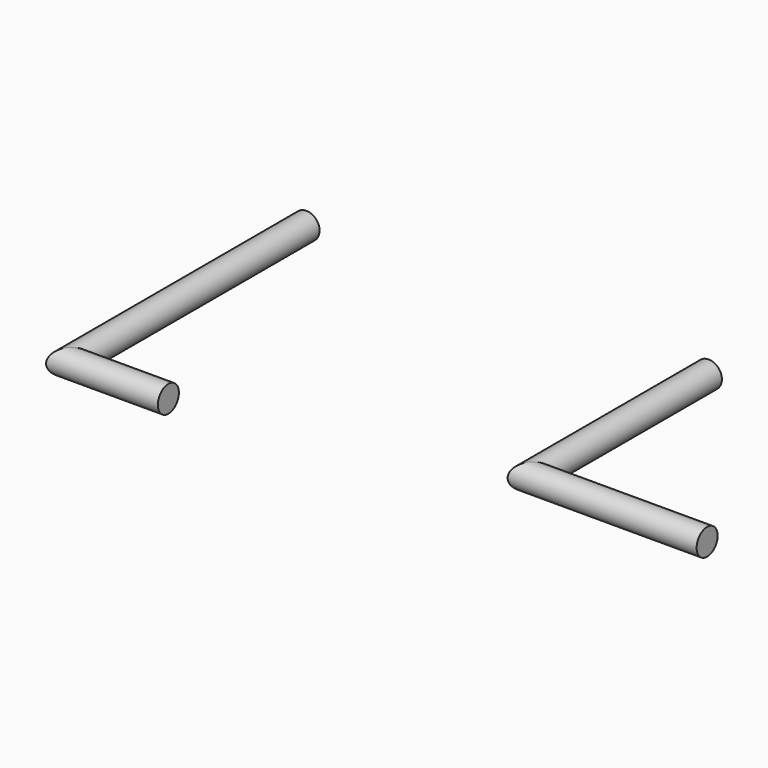
from build123d import *

# Parameters (mm, degrees)
F1_R = 8
F4_R = 8


with BuildPart() as f2:
    # F2: sweep along a path in F0
    with BuildLine(Plane.XY) as f2_path:
        Line((0, 0), (0, -135))
        Line((0, -135), (107, -135))
    # F1 (on Front) → F2 (sweep)
    with BuildSketch(Plane.XZ):
        Circle(F1_R)
    sweep(path=f2_path.line, transition=Transition.RIGHT)


with BuildPart() as f5:
    # F5: sweep along a path in F3
    with BuildLine(Plane.XY) as f5_path:
        Line((-244.7834680786, 0), (-244.7834680786, -180))
        Line((-244.7834680786, -180), (-184.7834680786, -180))
    # F4 (on Front) → F5 (sweep)
    with BuildSketch(Plane.XZ):
        with Locations((-244.7834680786, 0)):
            Circle(F4_R)
    sweep(path=f5_path.line, transition=Transition.RIGHT)


solid = Compound([f2.part, f5.part])
